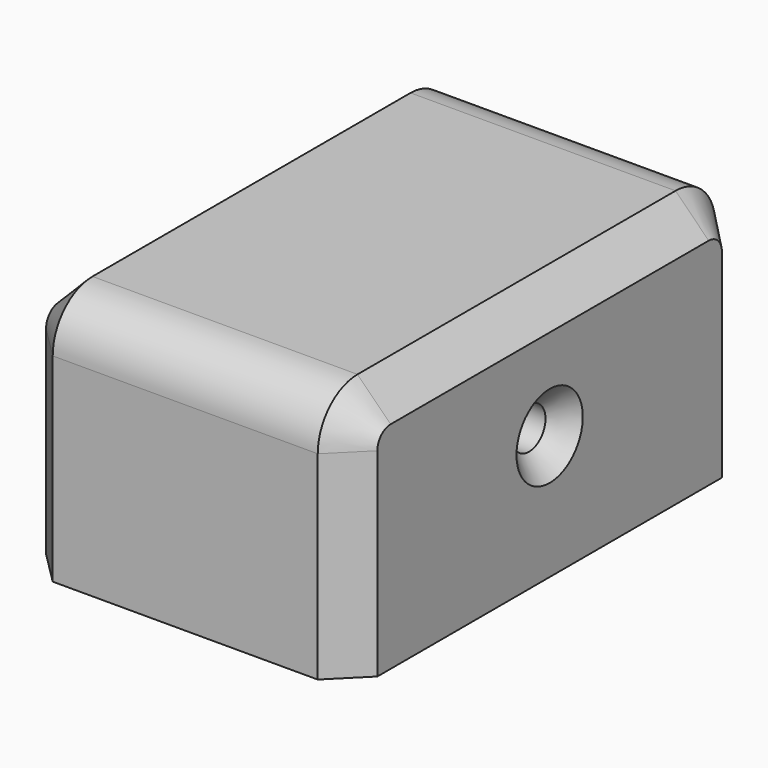
from build123d import *

# Parameters (mm, degrees)
F0_W           = 50.8
F0_H           = 38.1
F1_DEPTH       = 76.2
F2_R           = 7.62
F3_SIZE        = 5.08
F5_D           = 6.35
F5_CSINK_D     = 12.7
F5_CSINK_ANGLE = 90


with BuildPart() as f1:
    # F0 (on Front) → F1 (new body)
    with BuildSketch(Plane.XZ):
        with Locations((25.4, 19.05)):
            Rectangle(F0_W, F0_H)
    extrude(amount=F1_DEPTH)

    # F2
    f2_edges = [f1.edges().sort_by_distance(p)[0] for p in [
        (25.4, -76.2, 38.1),
        (25.4, 0, 38.1),
    ]]
    fillet(f2_edges, radius=F2_R)

    # F3
    f3_edges = [f1.edges().sort_by_distance(p)[0] for p in [
        (50.8, -38.1, 38.1),
        (0, -38.1, 38.1),
    ]]
    chamfer(f3_edges, length=F3_SIZE)

    # F5 (through all)
    with Locations(Plane.YZ.offset(50.8)):
        with Locations((-38.1, 19.05)):
            CounterSinkHole(F5_D / 2, F5_CSINK_D / 2, counter_sink_angle=F5_CSINK_ANGLE)


solid = f1.part
